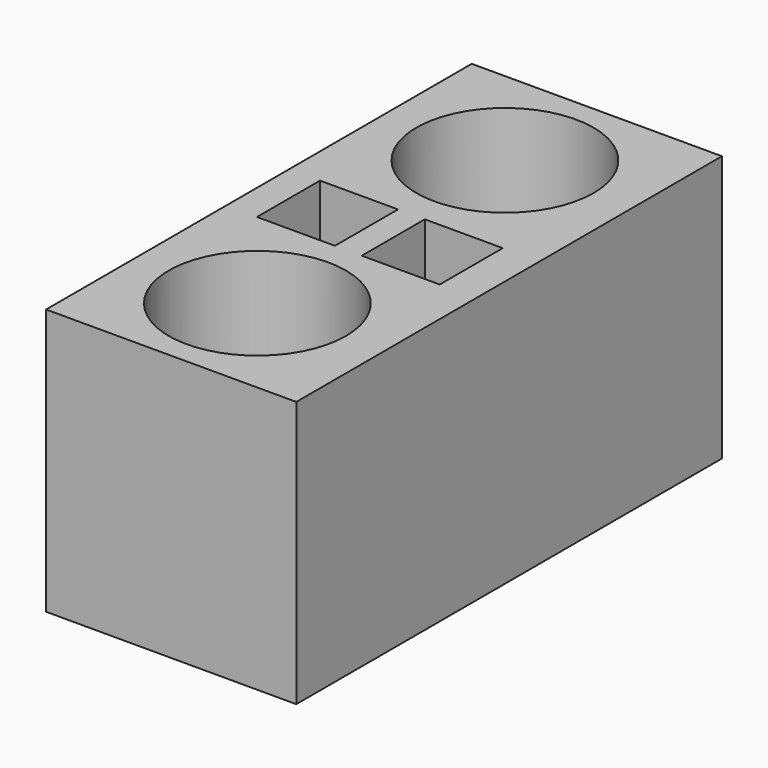
from build123d import *

# Parameters (mm, degrees)
F0_W     = 71.63686
F0_H     = 152.34463
F0_R     = 25.373603
F0_W_2   = 22.328374
F0_H_2   = 22.560959
F1_DEPTH = 76.2


with BuildPart() as f1:
    # F0 (on Top) → F1 (new body)
    with BuildSketch(Plane.XY):
        with Locations((0.814056, 0)):
            Rectangle(F0_W, F0_H)
        with Locations((0, -44.307865)):
            Circle(F0_R, mode=Mode.SUBTRACT)
        with Locations((-15.001876, -0.465175)):
            Rectangle(F0_W_2, F0_H_2, mode=Mode.SUBTRACT)
        with Locations((15.001876, -0.465175)):
            Rectangle(F0_W_2, F0_H_2, mode=Mode.SUBTRACT)
        with Locations((0, 44.307865)):
            Circle(F0_R, mode=Mode.SUBTRACT)
    extrude(amount=F1_DEPTH)


solid = f1.part
